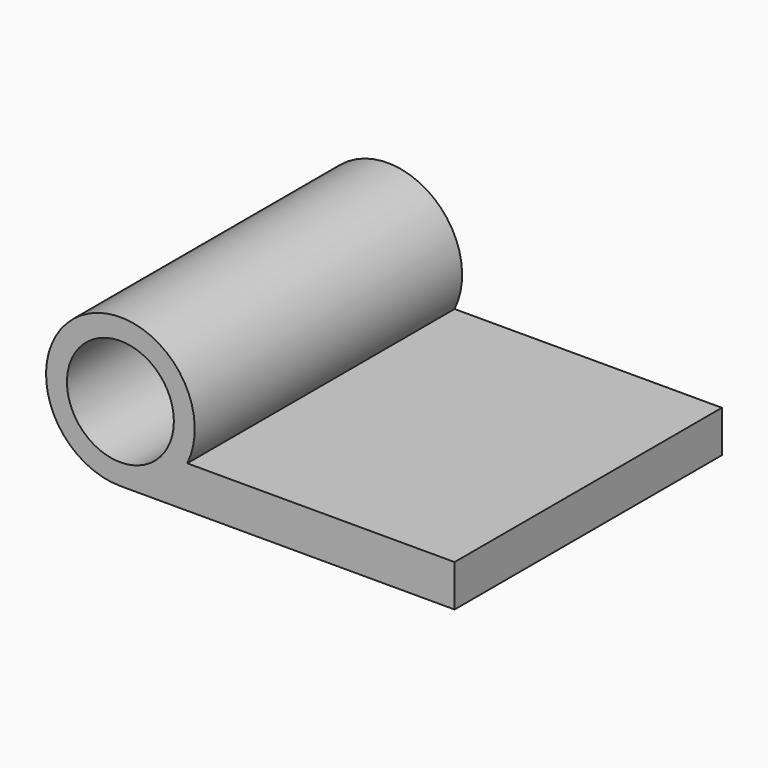
from build123d import *

# Parameters (mm, degrees)
F0_R     = 2.032
F1_DEPTH = 12.7


with BuildPart() as f1:
    # F0 (on Front) → F1 (new body)
    with BuildSketch(Plane.XZ):
        with BuildLine():
            ThreePointArc((2.54, 1.5875), (-1.497645, 5.221981), (0, 0))
            Line((0, 0), (12.7, 0))
            Line((12.7, 0), (12.7, 1.5875))
            Line((12.7, 1.5875), (2.54, 1.5875))
        make_face()
        with Locations((0, 2.82575)):
            Circle(F0_R, mode=Mode.SUBTRACT)
    extrude(amount=F1_DEPTH)


solid = f1.part
